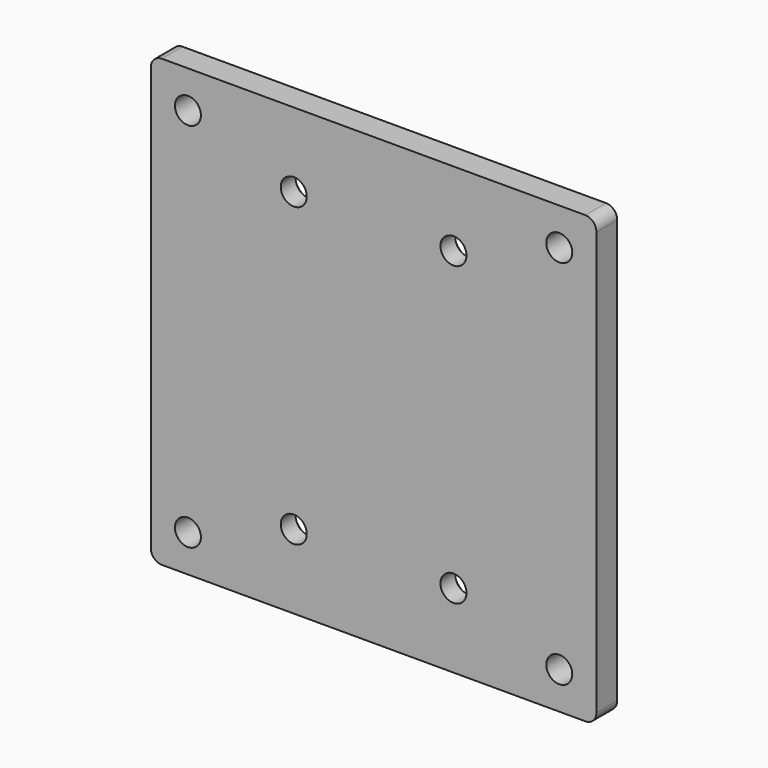
from build123d import *

# Parameters (mm, degrees)
F0_W     = 120
F0_H     = 120
F0_R     = 3.5
F1_DEPTH = 7
F2_R     = 3
F3_R     = 3.5
F4_DEPTH = 25
F5_R     = 5.5
F6_DEPTH = 2


with BuildPart() as f1:
    # F0 (on Front) → F1 (new body)
    with BuildSketch(Plane.XZ):
        Rectangle(F0_W, F0_H)
        with Locations((-50, -50)):
            Circle(F0_R, mode=Mode.SUBTRACT)
        with Locations((50, -50)):
            Circle(F0_R, mode=Mode.SUBTRACT)
        with Locations((-50, 50)):
            Circle(F0_R, mode=Mode.SUBTRACT)
        with Locations((50, 50)):
            Circle(F0_R, mode=Mode.SUBTRACT)
    extrude(amount=F1_DEPTH)

    # F2
    f2_edges = [f1.edges().sort_by_distance(p)[0] for p in [
        (-60, -3.5, 60),
        (-60, -3.5, -60),
        (60, -3.5, -60),
        (60, -3.5, 60),
    ]]
    fillet(f2_edges, radius=F2_R)

    # F3 (on face) → F4 (cut)
    with BuildSketch(Plane(origin=(0, 0, 0), x_dir=(-1, 0, 0), z_dir=(0, 1, 0))):
        with Locations((-21.5, 40)):
            Circle(F3_R)
        with Locations((21.5, 40)):
            Circle(F3_R)
        with Locations((-21.5, -40)):
            Circle(F3_R)
        with Locations((21.5, -40)):
            Circle(F3_R)
    extrude(amount=-F4_DEPTH, mode=Mode.SUBTRACT)

    # F5 (on face) → F6 (cut)
    with BuildSketch(Plane(origin=(0, 0, 0), x_dir=(-1, 0, 0), z_dir=(0, 1, 0))):
        with Locations((-21.5, 40)):
            Circle(F5_R)
        with Locations((21.5, 40)):
            Circle(F5_R)
        with Locations((-21.5, -40)):
            Circle(F5_R)
        with Locations((21.5, -40)):
            Circle(F5_R)
    extrude(amount=-F6_DEPTH, mode=Mode.SUBTRACT)


solid = f1.part
